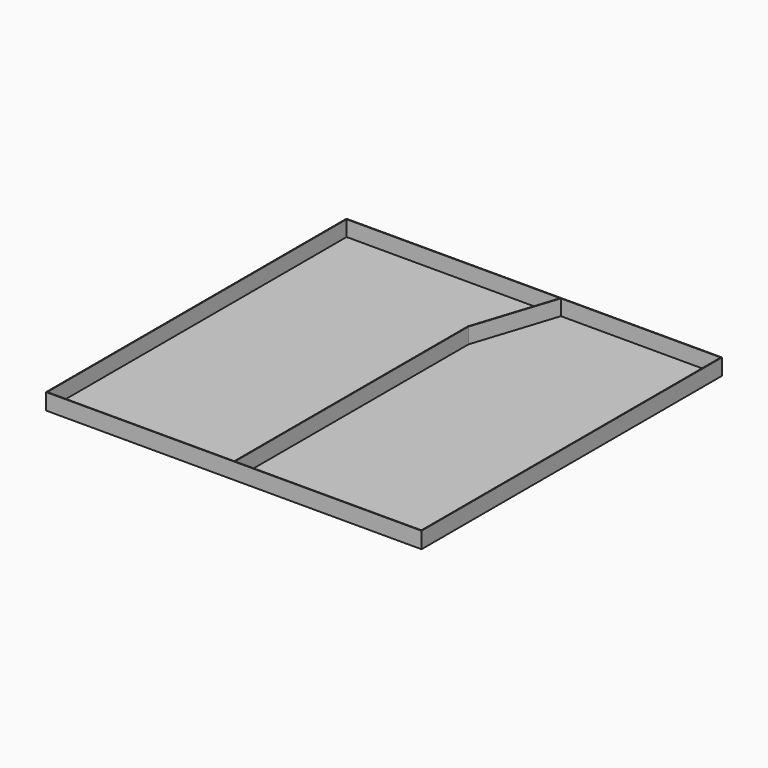
from build123d import *

# Parameters (mm, degrees)
F0_W     = 600
F0_H     = 600
F1_DEPTH = 1
F2_W     = 600
F2_H     = 600
F3_DEPTH = 25


with BuildPart() as f1:
    # F0 (on Top) → F1 (new body)
    with BuildSketch(Plane.XY):
        Rectangle(F0_W, F0_H)
    extrude(amount=F1_DEPTH)

    # F2 (on face) → F3 (join)
    with BuildSketch(Plane.XY.offset(1)):
        Rectangle(F2_W, F2_H)
        Polygon((-299, -299), (-299, 299), (42.380814, 299), (0, 167.511806), (0, -299), align=None, mode=Mode.SUBTRACT)
        Polygon((43.431474, 299), (299, 299), (299, -299), (1, -299), (1, 167.354629), align=None, mode=Mode.SUBTRACT)
    extrude(amount=F3_DEPTH)


solid = f1.part
